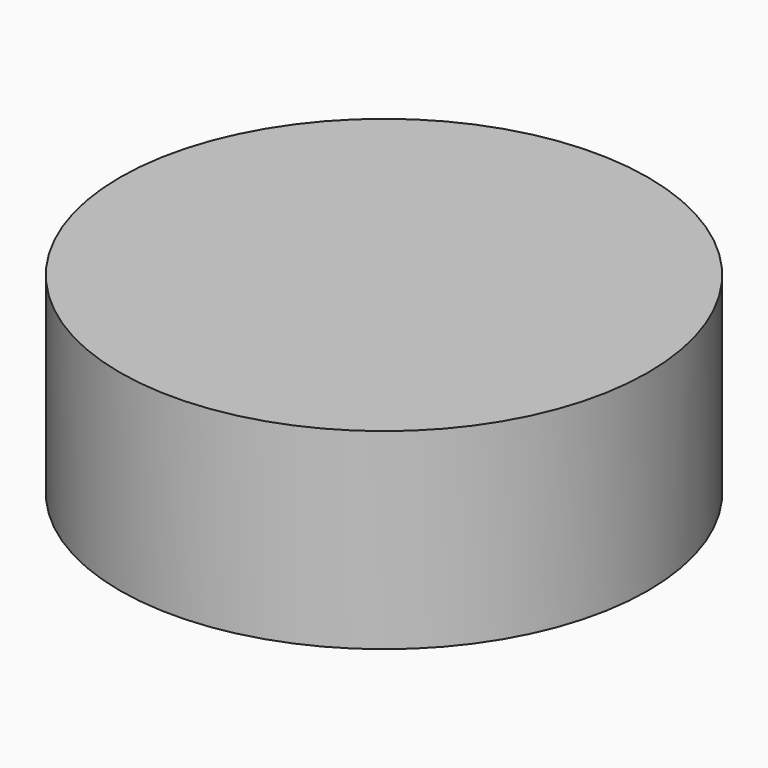
from build123d import *

# Parameters (mm, degrees)
CYLINDER_R     = 20.6375
CYLINDER_DEPTH = 15


with BuildPart() as part:
    # Cylinder → Cylinder (new body)
    with BuildSketch(Plane.XY.offset(-2.5)):
        Circle(CYLINDER_R)
    extrude(amount=CYLINDER_DEPTH)


solid = part.part
